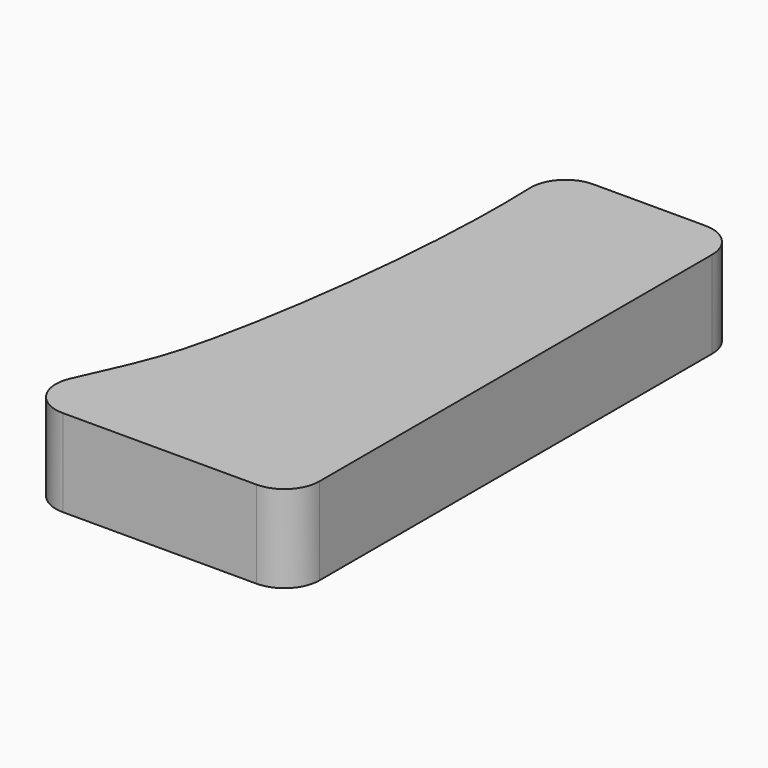
from build123d import *

# Parameters (mm, degrees)
F1_DEPTH = 0.508
F2_R     = 0.2032


with BuildPart() as f1:
    # F0 (on Top) → F1 (new body)
    with BuildSketch(Plane.XY):
        with BuildLine():
            Line((0.6148488762, -1.6235694056), (0.6148488762, 1.642056508))
            Line((0.6148488762, 1.642056508), (-0.4544672556, 1.642056508))
            add(Edge.make_bspline(
                [(-1.0296626715, -1.6235694056), (-0.7884516963, -1.0762058664), (-0.6325170849, -0.8539978213), (-0.3895258124, 0.8534820518), (-0.4544672556, 1.642056508)],
                knots=[0, 0, 0, 0, 0.4012668024, 1, 1, 1, 1], degree=3))
            Line((-1.0296626715, -1.6235694056), (0.6148488762, -1.6235694056))
        make_face()
    extrude(amount=F1_DEPTH)

    # F2
    f2_edges = [f1.edges().sort_by_distance(p)[0] for p in [
        (-1.029663, -1.623569, 0.254),
        (-0.454467, 1.642057, 0.254),
        (0.614849, -1.623569, 0.254),
        (0.614849, 1.642057, 0.254),
    ]]
    fillet(f2_edges, radius=F2_R)


solid = f1.part
